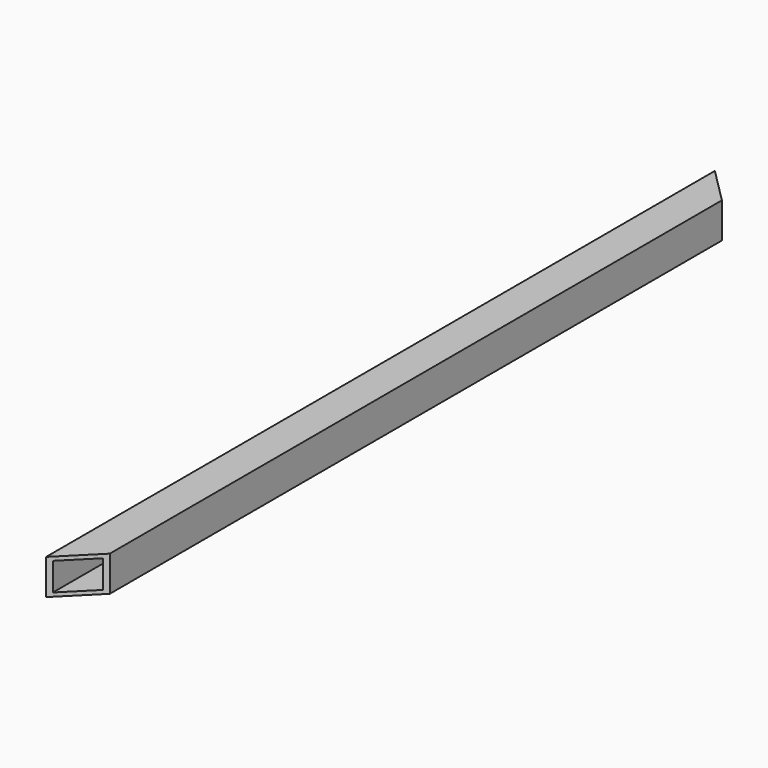
from build123d import *

# Parameters (mm, degrees)
F0_W     = 25.4
F0_H     = 25.4
F0_W_2   = 20
F0_H_2   = 20
F1_DEPTH = 600
F3_DEPTH = 26


with BuildPart() as f1:
    # F0 (on Front) → F1 (new body)
    with BuildSketch(Plane.XZ):
        Rectangle(F0_W, F0_H)
        Rectangle(F0_W_2, F0_H_2, mode=Mode.SUBTRACT)
    extrude(amount=F1_DEPTH)

    # F2 (on face) → F3 (cut)
    with BuildSketch(Plane.XY.offset(12.7)):
        Polygon((12.7, -574.6), (-12.7, -600), (12.7, -600), align=None)
        Polygon((12.7, 0), (-12.7, 0), (12.7, -25.4), align=None)
    extrude(amount=-F3_DEPTH, mode=Mode.SUBTRACT)


solid = f1.part
